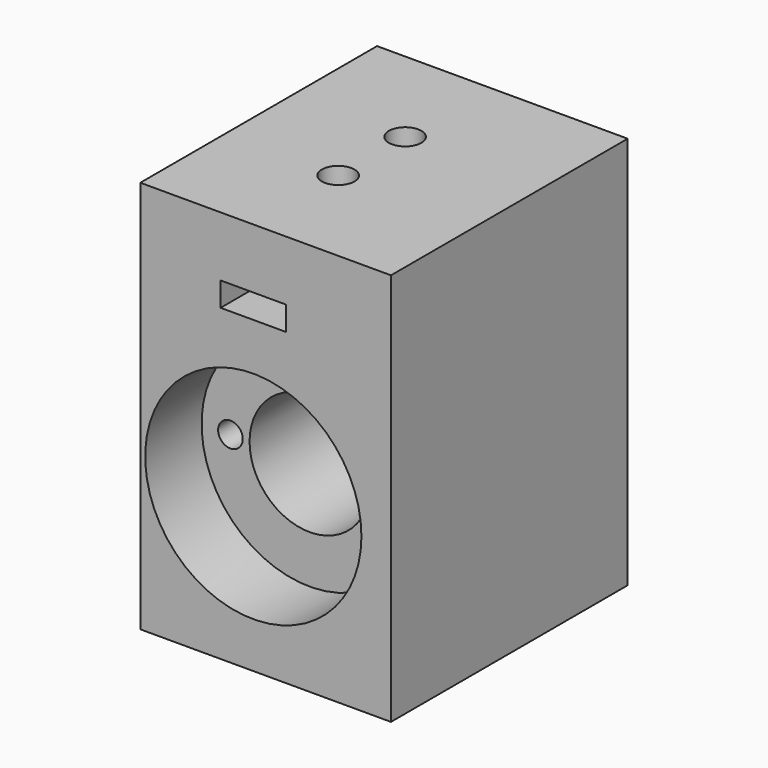
from build123d import *

# Parameters (mm, degrees)
F0_W      = 25.41
F0_H      = 29.997
F1_DEPTH  = 39.858
F4_D      = 3.3
F4_DEPTH  = 14
F4_TIP    = 0.9914200214
F3_W      = 6.626
F3_H      = 2.444
F5_DEPTH  = 29.998
F6_D      = 12.2
F7_D      = 2.5
F3_R      = 10.961
F8_DEPTH  = 7.15
F9_R      = 7.5
F10_DEPTH = 4.997


with BuildPart() as f1:
    # F0 (on Top) → F1 (new body)
    with BuildSketch(Plane.XY):
        Rectangle(F0_W, F0_H)
    extrude(amount=F1_DEPTH)

    # F4
    with Locations(Plane.XY.offset(39.858)):
        with Locations((-1.25, 4.2395), (-1.25, -4.2395)):
            Hole(F4_D / 2, depth=F4_DEPTH)
            with Locations((0, 0, -(F4_DEPTH + F4_TIP / 2))):  # 118° drill point
                Cone(0, F4_D / 2, F4_TIP, mode=Mode.SUBTRACT)

    # F3 (on face) → F5 (cut, through all)
    with BuildSketch(Plane.XZ.offset(14.9985)):
        with Locations((-1.25, 32.564)):
            Rectangle(F3_W, F3_H)
    extrude(amount=-F5_DEPTH, mode=Mode.SUBTRACT)

    # F6 (through all)
    with Locations(Plane.XZ.offset(14.9985)):
        with Locations((-1.25, 15.589)):
            Hole(F6_D / 2)

    # F7 (through all)
    with Locations(Plane.XZ.offset(14.9985)):
        with Locations((-9.29, 15.589), (6.79, 15.589)):
            Hole(F7_D / 2)

    # F3 (on face) → F8 (cut)
    with BuildSketch(Plane.XZ.offset(14.9985)):
        with Locations((-1.25, 15.589)):
            Circle(F3_R)
    extrude(amount=-F8_DEPTH, mode=Mode.SUBTRACT)

    # F9 (on face) → F10 (cut)
    with BuildSketch(Plane(origin=(0, 14.9985, 0), x_dir=(-1, 0, 0), z_dir=(0, 1, 0))):
        with Locations((1.25, 15.589)):
            Circle(F9_R)
    extrude(amount=-F10_DEPTH, mode=Mode.SUBTRACT)


solid = f1.part
